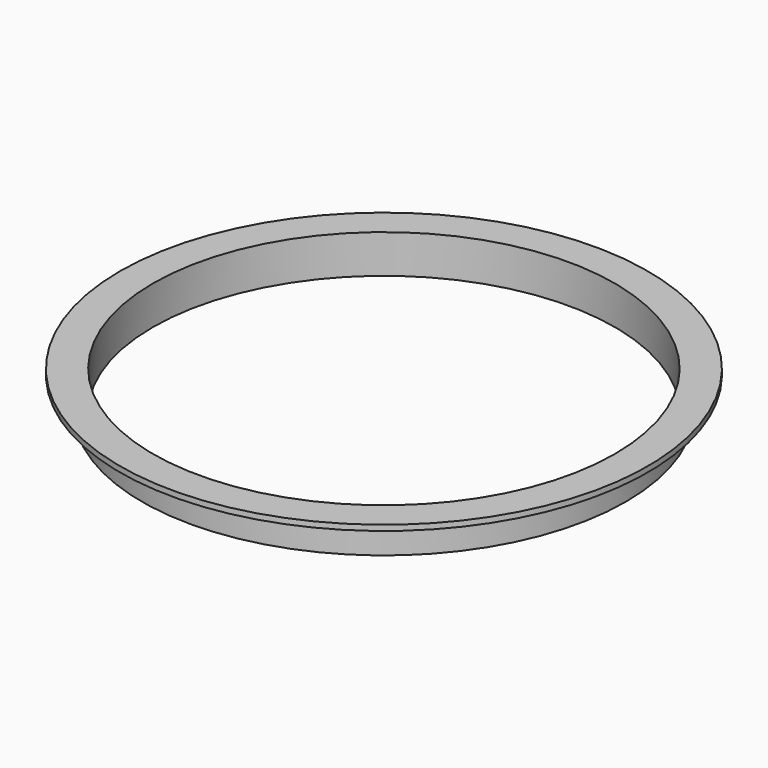
from build123d import *

# Parameters (mm, degrees)
F0_R     = 44
F0_R_2   = 42
F1_DEPTH = 7
F2_W     = 4
F2_H     = 1


with BuildPart() as f1:
    # F0 (on Top) → F1 (new body)
    with BuildSketch(Plane.XY):
        Circle(F0_R)
        Circle(F0_R_2, mode=Mode.SUBTRACT)
    extrude(amount=F1_DEPTH)

    # F2 (on Front) → F3 (revolve)
    with BuildSketch(Plane.XZ):
        with Locations((-46, 6.5)):
            Rectangle(F2_W, F2_H)
    revolve(axis=Axis((0, 0, 17.343897), (0, 0, 1)))


solid = f1.part
